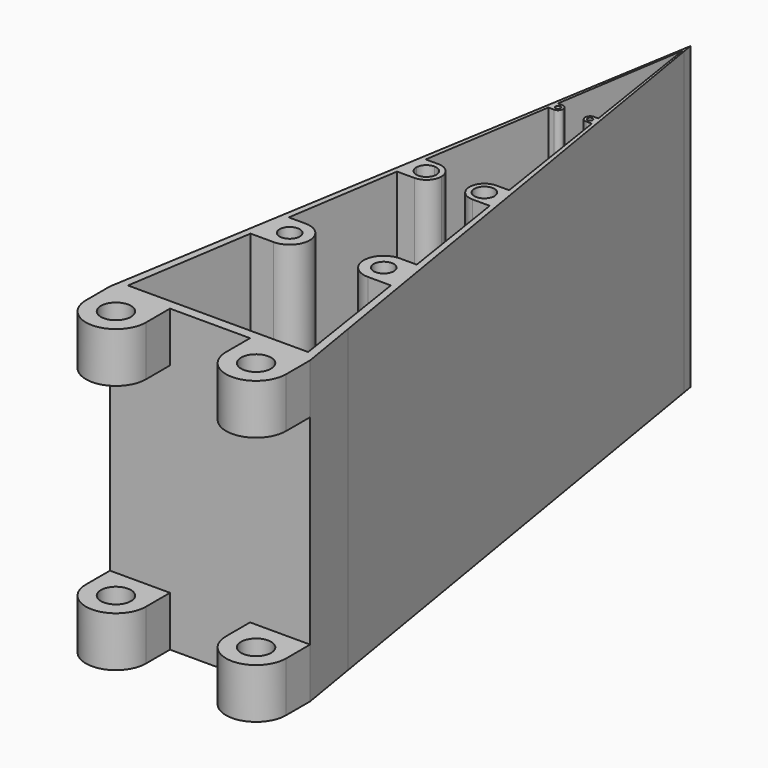
from build123d import *

# Parameters (mm, degrees)
F0_R     = 0.75
F0_R_2   = 0.5
F2_DEPTH = 15
F3_DEPTH = 10


with BuildPart() as f2:
    # F0 (on Top) → F2 (new body)
    with BuildSketch(Plane.XY):
        Polygon((0.5, 3), (0, 0), (0.5, 0), (0.5, 0.5), align=None)
        with BuildLine():
            Line((0.5, 0), (0, 0))
            Line((0, 0), (0, -1.5))
            ThreePointArc((0, -1.5), (1.5, -3), (3, -1.5))
            Line((3, -1.5), (3, 0))
            Line((3, 0), (1.5, 0))
            Line((1.5, 0), (1.4034414795, 0))
            Line((1.4034414795, 0), (0.5, 0))
        make_face()
        with Locations((1.5, -1.5)):
            Circle(F0_R, mode=Mode.SUBTRACT)
        Polygon((0.5, 0.5), (0.5, 0), (1.4034414795, 0), (1.5, 0), (3, 0), (7, 0), (8.5, 0), (9.5, 0), (9.5, 0.5), align=None)
        Polygon((4.9166666667, 29.5), (0.5, 3), (0.5, 0.5), (1.4948575599, 6.9113042752), (1.6500299737, 7.9113042752), (1.8052023875, 8.9113042752), (2.6836806371, 14.5726085504), (2.8000599475, 15.3226085504), (2.9164392578, 16.0726085504), (3.9112968178, 22.4839128256), (3.9500899212, 22.7339128256), (3.9888830247, 22.9839128256), (5, 29.5), align=None)
        Polygon((5, 30), (4.9166666667, 29.5), (5, 29.5), (5.0833333333, 29.5), align=None)
        Polygon((9.5, 3), (9.5, 0.5), (9.5, 0), (10, 0), align=None)
        Polygon((8.5051424401, 6.9113042752), (9.5, 0.5), (9.5, 3), (5.0833333333, 29.5), (5, 29.5), (6.0111169753, 22.9839128256), (6.0499100788, 22.7339128256), (6.0887031822, 22.4839128256), (7.0835607422, 16.0726085504), (7.1999400525, 15.3226085504), (7.3163193629, 14.5726085504), (8.1947976125, 8.9113042752), align=None)
        with BuildLine():
            Line((10, 0), (9.5, 0))
            Line((9.5, 0), (8.5, 0))
            Line((8.5, 0), (7, 0))
            Line((7, 0), (7, -1.5))
            ThreePointArc((7, -1.5), (8.5, -3), (10, -1.5))
            Line((10, -1.5), (10, 0))
        make_face()
        with Locations((8.5, -1.5)):
            Circle(F0_R, mode=Mode.SUBTRACT)
        with BuildLine():
            Line((1.6500299737, 7.9113042752), (1.4948575599, 6.9113042752))
            Line((1.4948575599, 6.9113042752), (2.6500299737, 6.9113042752))
            ThreePointArc((2.6500299737, 6.9113042752), (3.6500299737, 7.9113042752), (2.6500299737, 8.9113042752))
            Line((2.6500299737, 8.9113042752), (1.8052023875, 8.9113042752))
            Line((1.8052023875, 8.9113042752), (1.6500299737, 7.9113042752))
        make_face()
        with BuildLine():
            ThreePointArc((2.6500299737, 7.4113042752), (2.2964765831, 8.2648576658), (3.1500299737, 7.9113042752))
            ThreePointArc((3.1500299737, 7.9113042752), (3.0035833643, 7.5577508846), (2.6500299737, 7.4113042752))
        make_face(mode=Mode.SUBTRACT)
        with BuildLine():
            Line((7.3499700263, 6.9113042752), (8.5051424401, 6.9113042752))
            Line((8.5051424401, 6.9113042752), (8.1947976125, 8.9113042752))
            Line((8.1947976125, 8.9113042752), (7.3499700263, 8.9113042752))
            ThreePointArc((7.3499700263, 8.9113042752), (6.3499700263, 7.9113042752), (7.3499700263, 6.9113042752))
        make_face()
        with Locations((7.3499700263, 7.9113042752)):
            Circle(F0_R_2, mode=Mode.SUBTRACT)
        with BuildLine():
            Line((2.8000599475, 15.3226085504), (2.6836806371, 14.5726085504))
            Line((2.6836806371, 14.5726085504), (3.5500599475, 14.5726085504))
            Line((3.5500599475, 14.5726085504), (3.5500599475, 14.8226085504))
            ThreePointArc((3.5500599475, 14.8226085504), (3.1965065569, 14.9690551598), (3.0500599475, 15.3226085504))
            Line((3.0500599475, 15.3226085504), (2.8000599475, 15.3226085504))
        make_face()
        with BuildLine():
            Line((3.5500599475, 14.8226085504), (3.5500599475, 14.5726085504))
            ThreePointArc((3.5500599475, 14.5726085504), (4.0803900334, 14.7922784645), (4.3000599475, 15.3226085504))
            Line((4.3000599475, 15.3226085504), (4.0500599475, 15.3226085504))
            ThreePointArc((4.0500599475, 15.3226085504), (3.9036133381, 14.9690551598), (3.5500599475, 14.8226085504))
        make_face()
        with BuildLine():
            Line((4.0500599475, 15.3226085504), (4.3000599475, 15.3226085504))
            ThreePointArc((4.3000599475, 15.3226085504), (4.0803900334, 15.8529386363), (3.5500599475, 16.0726085504))
            Line((3.5500599475, 16.0726085504), (3.5500599475, 15.8226085504))
            ThreePointArc((3.5500599475, 15.8226085504), (3.9036133381, 15.676161941), (4.0500599475, 15.3226085504))
        make_face()
        with BuildLine():
            Line((2.9164392578, 16.0726085504), (2.8000599475, 15.3226085504))
            Line((2.8000599475, 15.3226085504), (3.0500599475, 15.3226085504))
            ThreePointArc((3.0500599475, 15.3226085504), (3.1965065569, 15.676161941), (3.5500599475, 15.8226085504))
            Line((3.5500599475, 15.8226085504), (3.5500599475, 16.0726085504))
            Line((3.5500599475, 16.0726085504), (2.9164392578, 16.0726085504))
        make_face()
        with BuildLine():
            Line((6.9499400525, 15.3226085504), (7.1999400525, 15.3226085504))
            Line((7.1999400525, 15.3226085504), (7.0835607422, 16.0726085504))
            Line((7.0835607422, 16.0726085504), (6.4499400525, 16.0726085504))
            ThreePointArc((6.4499400525, 16.0726085504), (5.9196099666, 15.8529386363), (5.6999400525, 15.3226085504))
            Line((5.6999400525, 15.3226085504), (5.9499400525, 15.3226085504))
            ThreePointArc((5.9499400525, 15.3226085504), (6.4499400525, 15.8226085504), (6.9499400525, 15.3226085504))
        make_face()
        with BuildLine():
            Line((6.4499400525, 14.5726085504), (7.3163193629, 14.5726085504))
            Line((7.3163193629, 14.5726085504), (7.1999400525, 15.3226085504))
            Line((7.1999400525, 15.3226085504), (6.9499400525, 15.3226085504))
            ThreePointArc((6.9499400525, 15.3226085504), (6.4499400525, 14.8226085504), (5.9499400525, 15.3226085504))
            Line((5.9499400525, 15.3226085504), (5.6999400525, 15.3226085504))
            ThreePointArc((5.6999400525, 15.3226085504), (5.9196099666, 14.7922784645), (6.4499400525, 14.5726085504))
        make_face()
        with BuildLine():
            Line((4.0750899212, 22.7339128256), (3.9500899212, 22.7339128256))
            Line((3.9500899212, 22.7339128256), (3.9112968178, 22.4839128256))
            Line((3.9112968178, 22.4839128256), (4.2000899212, 22.4839128256))
            Line((4.2000899212, 22.4839128256), (4.2000899212, 22.6089128256))
            ThreePointArc((4.2000899212, 22.6089128256), (4.1117015736, 22.6455244779), (4.0750899212, 22.7339128256))
        make_face()
        with BuildLine():
            ThreePointArc((4.2000899212, 22.4839128256), (4.3768666165, 22.5571361303), (4.4500899212, 22.7339128256))
            Line((4.4500899212, 22.7339128256), (4.3250899212, 22.7339128256))
            ThreePointArc((4.3250899212, 22.7339128256), (4.2884782689, 22.6455244779), (4.2000899212, 22.6089128256))
            Line((4.2000899212, 22.6089128256), (4.2000899212, 22.4839128256))
        make_face()
        with BuildLine():
            ThreePointArc((4.4500899212, 22.7339128256), (4.3768666165, 22.9106895209), (4.2000899212, 22.9839128256))
            Line((4.2000899212, 22.9839128256), (4.2000899212, 22.8589128256))
            ThreePointArc((4.2000899212, 22.8589128256), (4.2884782689, 22.8223011732), (4.3250899212, 22.7339128256))
            Line((4.3250899212, 22.7339128256), (4.4500899212, 22.7339128256))
        make_face()
        with BuildLine():
            Line((4.2000899212, 22.9839128256), (3.9888830247, 22.9839128256))
            Line((3.9888830247, 22.9839128256), (3.9500899212, 22.7339128256))
            Line((3.9500899212, 22.7339128256), (4.0750899212, 22.7339128256))
            ThreePointArc((4.0750899212, 22.7339128256), (4.1117015736, 22.8223011732), (4.2000899212, 22.8589128256))
            Line((4.2000899212, 22.8589128256), (4.2000899212, 22.9839128256))
        make_face()
        with BuildLine():
            Line((6.0499100788, 22.7339128256), (6.0111169753, 22.9839128256))
            Line((6.0111169753, 22.9839128256), (5.7999100788, 22.9839128256))
            ThreePointArc((5.7999100788, 22.9839128256), (5.6231333835, 22.9106895209), (5.5499100788, 22.7339128256))
            Line((5.5499100788, 22.7339128256), (5.6749100788, 22.7339128256))
            ThreePointArc((5.6749100788, 22.7339128256), (5.7999100788, 22.8589128256), (5.9249100788, 22.7339128256))
            Line((5.9249100788, 22.7339128256), (6.0499100788, 22.7339128256))
        make_face()
        with BuildLine():
            Line((6.0887031822, 22.4839128256), (6.0499100788, 22.7339128256))
            Line((6.0499100788, 22.7339128256), (5.9249100788, 22.7339128256))
            ThreePointArc((5.9249100788, 22.7339128256), (5.7999100788, 22.6089128256), (5.6749100788, 22.7339128256))
            Line((5.6749100788, 22.7339128256), (5.5499100788, 22.7339128256))
            ThreePointArc((5.5499100788, 22.7339128256), (5.6231333835, 22.5571361303), (5.7999100788, 22.4839128256))
            Line((5.7999100788, 22.4839128256), (6.0887031822, 22.4839128256))
        make_face()
    extrude(amount=F2_DEPTH)

    # F1 (on Right) → F3 (cut)
    with BuildSketch(Plane.YZ):
        Polygon((-3, 2.5), (0, 2.5), (0, 7.5), (0, 12.5), (-3, 12.5), align=None)
    extrude(amount=F3_DEPTH, mode=Mode.SUBTRACT)


solid = f2.part
